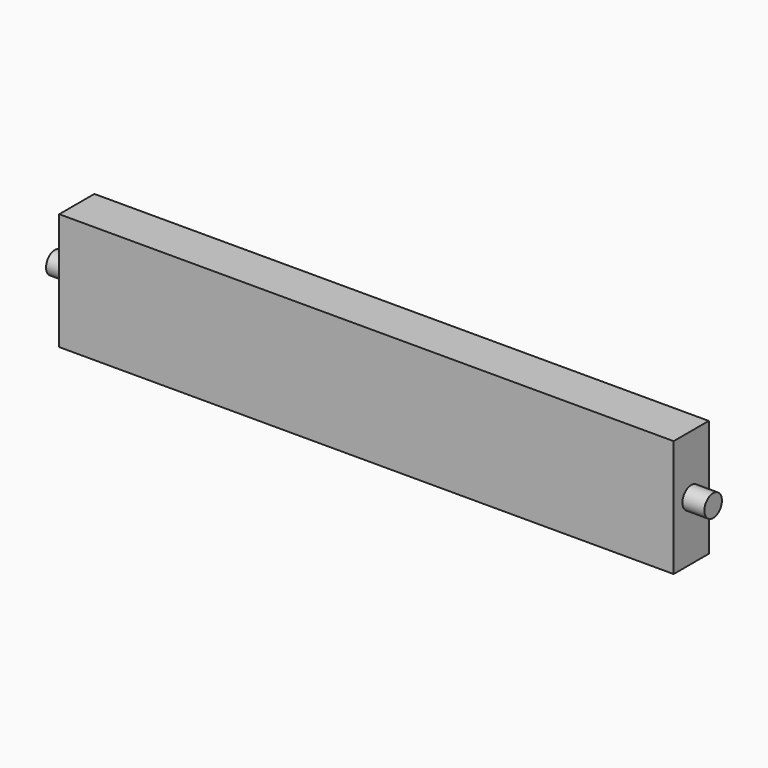
from build123d import *

# Parameters (mm, degrees)
F0_W     = 266.7
F0_H     = 19.05
F1_DEPTH = 50.8
F3_R     = 4.7625
F4_DEPTH = 9.525
F6_R     = 4.7625
F7_DEPTH = 9.525


with BuildPart() as f1:
    # F0 (on Top) → F1 (new body)
    with BuildSketch(Plane.XY):
        Rectangle(F0_W, F0_H)
    extrude(amount=F1_DEPTH)

    # F3 (on offset) → F4 (join)
    with BuildSketch(Plane.YZ.offset(133.35)):
        with Locations((0, 25.4)):
            Circle(F3_R)
    extrude(amount=F4_DEPTH)

    # F6 (on offset) → F7 (join)
    with BuildSketch(Plane.YZ.offset(-133.35)):
        with Locations((0, 25.418339)):
            Circle(F6_R)
    extrude(amount=-F7_DEPTH)


solid = f1.part
